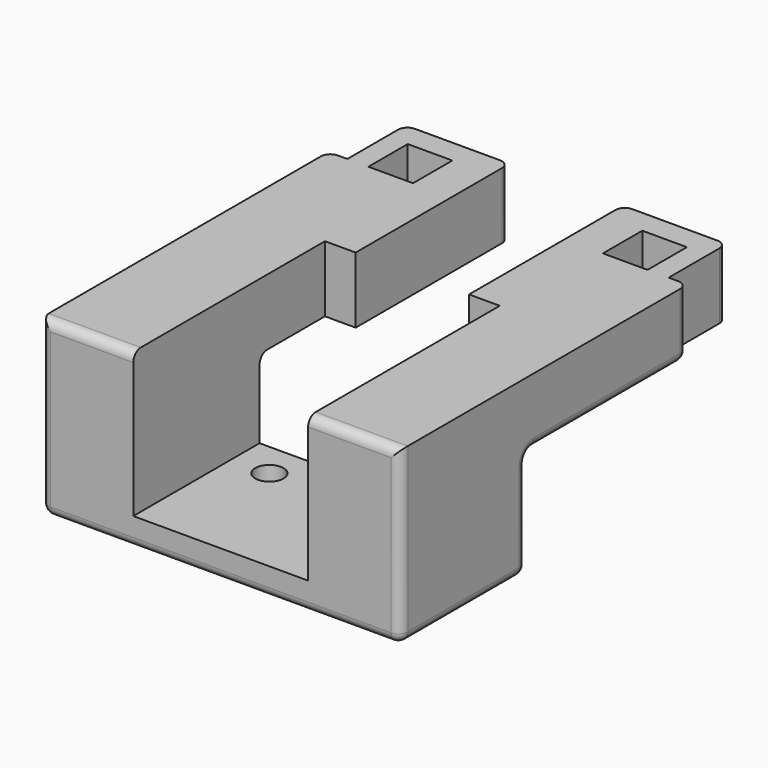
from build123d import *

# Parameters (mm, degrees)
SKETCH_W        = 4.72
SKETCH_H        = 5.2
PAD_DEPTH       = 18.3
SKETCH001_W     = 29
SKETCH001_H     = 11.3
POCKET_DEPTH    = 38.001
POCKET005_DEPTH = 15.3
SKETCH003_R     = 1.5
POCKET006_DEPTH = 5
FILLET_R        = 1
FILLET001_R     = 1
FILLET002_R     = 1
FILLET003_R     = 1
FILLET004_R     = 1


with BuildPart() as part:
    # Sketch → Pad (new body)
    with BuildSketch(Plane.XY):
        Polygon((-19, 19), (-19, -19), (19, -19), (19, 19), (17, 19), (17, 26.7), (6, 26.7), (6, 19), (-6, 19), (-6, 26.7), (-17, 26.7), (-17, 19), align=None)
        with Locations((-12.41, 21.6)):
            Rectangle(SKETCH_W, SKETCH_H, mode=Mode.SUBTRACT)
        with Locations((12.41, 21.6)):
            Rectangle(SKETCH_W, SKETCH_H, mode=Mode.SUBTRACT)
    extrude(amount=PAD_DEPTH)

    # Sketch001 (on Face3 of Pad) → Pocket (cut, through all)
    with BuildSketch(Plane.YZ.offset(19)):
        with Locations((12.2, 5.65)):
            Rectangle(SKETCH001_W, SKETCH001_H)
    extrude(amount=-POCKET_DEPTH, mode=Mode.SUBTRACT)

    # Sketch002 (on Face6 of Pocket) → Pocket005 (cut)
    with BuildSketch(Plane.XY.offset(18.3)):
        Polygon((-9.25, -19), (9.25, -19), (9.25, 6.35), (6, 6.35), (6, 19), (-6, 19), (-6, 6.35), (-9.25, 6.35), align=None)
    extrude(amount=-POCKET005_DEPTH, mode=Mode.SUBTRACT)

    # Sketch003 → Pocket006 (cut)
    with BuildSketch(Plane.XY.offset(4)):
        with Locations((-5.25, -6)):
            Circle(SKETCH003_R)
        with Locations((5.25, -6)):
            Circle(SKETCH003_R)
    extrude(amount=-POCKET006_DEPTH, mode=Mode.SUBTRACT)

    # Fillet
    fillet_edges = [part.edges().sort_by_distance(p)[0] for p in [
        (19, 19, 14.8),
        (17, 26.7, 14.8),
        (6, 26.7, 14.8),
        (-6, 26.7, 14.8),
        (-17, 26.7, 14.8),
        (-19, 19, 14.8),
    ]]
    fillet(fillet_edges, radius=FILLET_R)

    # Fillet001
    fillet001_edges = [part.edges().sort_by_distance(p)[0] for p in [
        (19, -10.65, 0),
        (-19, -10.65, 0),
    ]]
    fillet(fillet001_edges, radius=FILLET001_R)

    # Fillet002
    fillet002_edges = [part.edges().sort_by_distance(p)[0] for p in [
        (14.125, -2.3, 11.3),
        (-14.125, -2.3, 11.3),
    ]]
    fillet(fillet002_edges, radius=FILLET002_R)

    # Fillet003
    fillet003_edges = [part.edges().sort_by_distance(p)[0] for p in [
        (0, -2.3, 0),
    ]]
    fillet(fillet003_edges, radius=FILLET003_R)

    # Fillet004
    fillet004_edges = [part.edges().sort_by_distance(p)[0] for p in [
        (0, -19, 0),
        (19, -19, 9.65),
        (-19, -19, 9.65),
        (-14.125, -19, 18.3),
        (14.125, -19, 18.3),
    ]]
    fillet(fillet004_edges, radius=FILLET004_R)


solid = part.part
